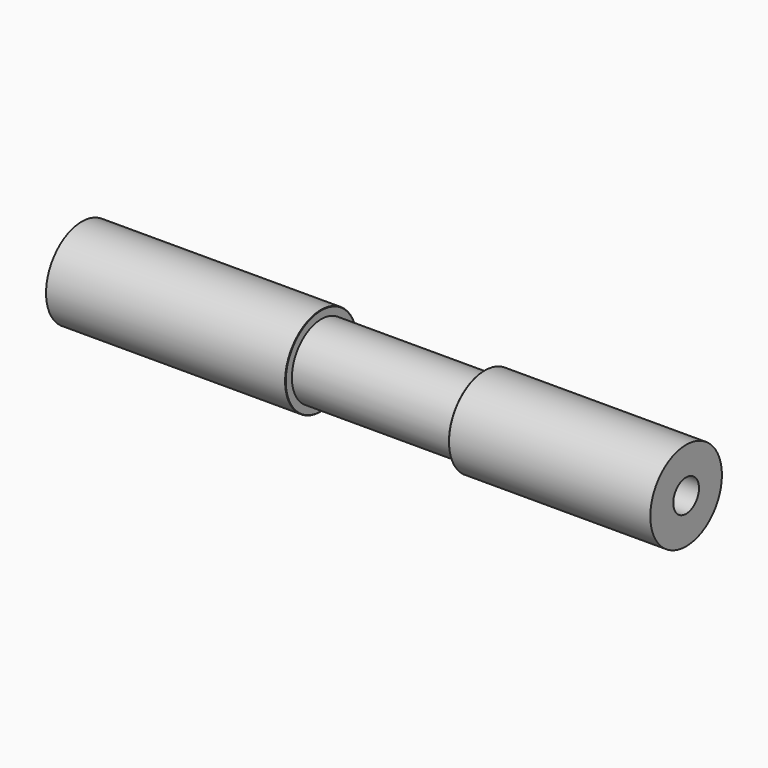
from build123d import *

# Parameters (mm, degrees)
F0_R     = 5.925
F1_DEPTH = 31.7
F2_R     = 4.865
F3_DEPTH = 21.6
F4_R     = 5.925
F4_R_2   = 4.865
F5_DEPTH = 26.7
F7_D     = 4.26
F8_SIZE  = 0.05
F9_SIZE  = 0.05


with BuildPart() as f1:
    # F0 (on Right) → F1 (new body)
    with BuildSketch(Plane.YZ):
        Circle(F0_R)
    extrude(amount=F1_DEPTH)

    # F2 (on face) → F3 (join)
    with BuildSketch(Plane.YZ.offset(31.7)):
        Circle(F2_R)
    extrude(amount=F3_DEPTH)

    # F4 (on face) → F5 (join)
    with BuildSketch(Plane.YZ.offset(53.3)):
        Circle(F4_R)
        Circle(F4_R_2, mode=Mode.SUBTRACT)
        Circle(F4_R_2)
    extrude(amount=F5_DEPTH)

    # F7 (through all)
    with Locations(Plane.YZ.offset(80)):
        with Locations((0, 0)):
            Hole(F7_D / 2)

    # F8
    f8_edges = [f1.edges().sort_by_distance(p)[0] for p in [
        (31.7, -5.925, 0),
    ]]
    chamfer(f8_edges, length=F8_SIZE)

    # F9
    f9_edges = [f1.edges().sort_by_distance(p)[0] for p in [
        (53.3, -5.925, 0),
    ]]
    chamfer(f9_edges, length=F9_SIZE)


solid = f1.part
